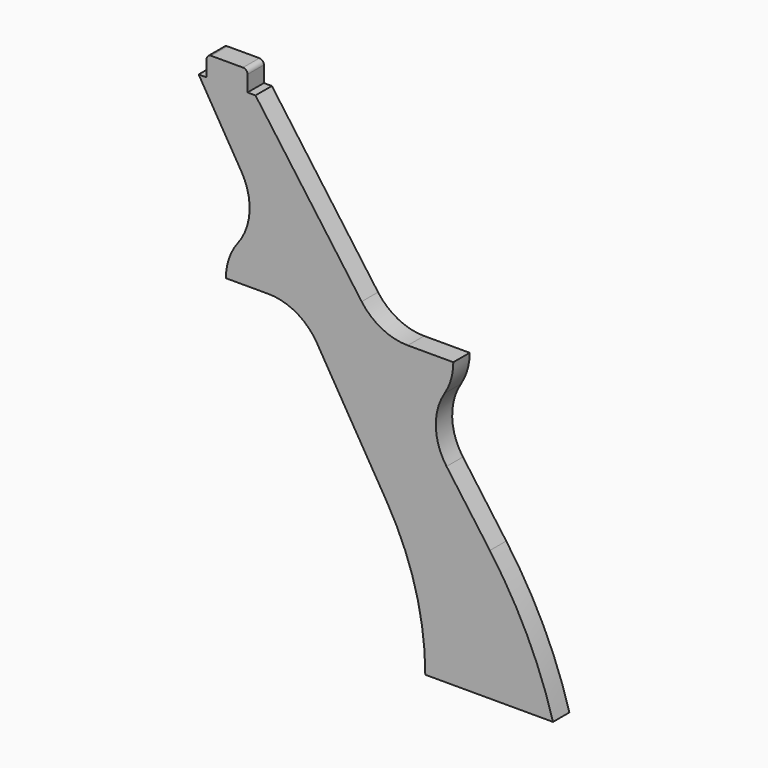
from build123d import *

# Parameters (mm, degrees)
F1_DEPTH = 18


with BuildPart() as f1:
    # F0 (on Front) → F1 (new body)
    with BuildSketch(Plane.XZ):
        with BuildLine():
            Line((240.362719, 0), (280, 0))
            Line((280, 0), (352.678155, 0))
            ThreePointArc((352.678155, 0), (329.930673, 59.773689), (297.140698, 114.684155))
            Line((297.140698, 114.684155), (259.063123, 167.386681))
            ThreePointArc((259.063123, 167.386681), (249.616666, 195.090013), (257.29587, 223.334303))
            ThreePointArc((257.29587, 223.334303), (263.03537, 236.121843), (265, 250))
            Line((265, 250), (224.934809, 250))
            ThreePointArc((224.934809, 250), (202.176253, 255.479801), (184.406191, 270.718074))
            Line((184.406191, 270.718074), (91, 400))
            Line((91, 400), (84, 400))
            Line((84, 400), (84, 414))
            ThreePointArc((84, 414), (82.828427, 416.828427), (80, 418))
            Line((80, 418), (52, 418))
            ThreePointArc((52, 418), (49.171573, 416.828427), (48, 414))
            Line((48, 414), (48, 400))
            Line((48, 400), (41, 400))
            Line((41, 400), (78.778869, 336.771767))
            ThreePointArc((78.778869, 336.771767), (85.768369, 308.150895), (75.428478, 280.562962))
            ThreePointArc((75.428478, 280.562962), (67.678884, 266.146577), (65, 250))
            Line((65, 250), (102.254694, 250))
            ThreePointArc((102.254694, 250), (126.92966, 243.48731), (145.176608, 225.645844))
            Line((145.176608, 225.645844), (206.336559, 123.286094))
            ThreePointArc((206.336559, 123.286094), (231.700078, 63.947714), (240.362719, 0))
        make_face()
    extrude(amount=F1_DEPTH)


solid = f1.part
